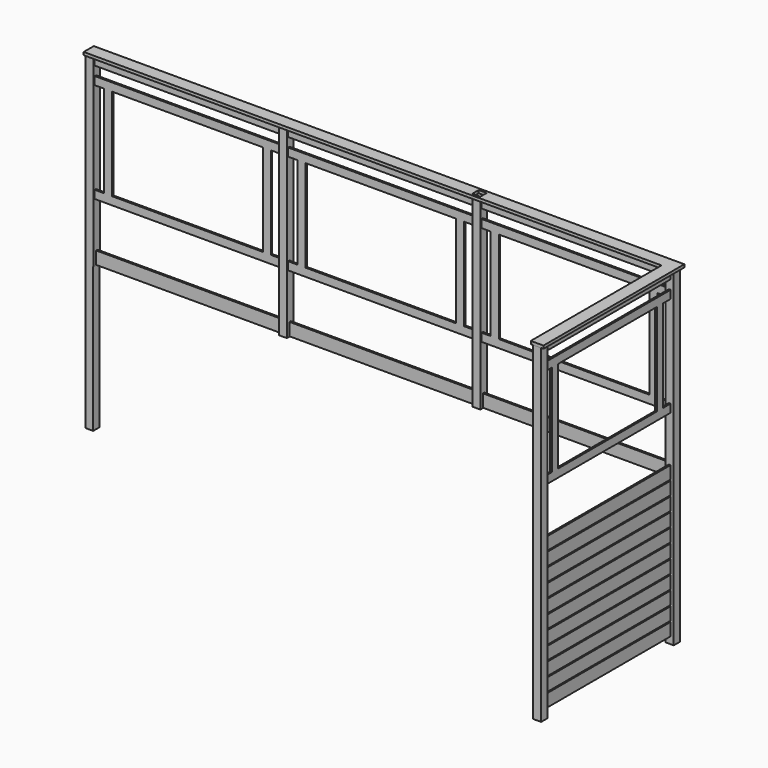
from build123d import *

# Parameters (mm, degrees)
F0_W      = 88.9
F0_H      = 88.9
F1_DEPTH  = 3632.2
F2_W      = 19.05
F2_H      = 139.7
F3_DEPTH  = 1739.9
F4_W      = 19.05
F4_H      = 139.7
F5_DEPTH  = 6311.9
F6_W      = 88.9
F6_H      = 88.9
F7_DEPTH  = 31.75
F8_W      = 1739.9
F8_H      = 88.9
F8_W_2    = 1358.9
F8_H_2    = 1016
F9_DEPTH  = 19.05
F10_W     = 2044.7
F10_H     = 88.9
F10_W_2   = 1663.7
F10_H_2   = 1016
F11_DEPTH = 19.05
F12_W     = 6316.164638
F12_H     = 1596.011162
F13_DEPTH = 152.4


with BuildPart() as f1:
    # F0 (on Top) → F1 (new body)
    with BuildSketch(Plane.XY):
        with Locations((6445.25, 44.45)):
            Rectangle(F0_W, F0_H)
        with Locations((6445.25, -1784.35)):
            Rectangle(F0_W, F0_H)
        with Locations((44.45, 44.45)):
            Rectangle(F0_W, F0_H)
        with Locations((2178.05, 44.45)):
            Rectangle(F0_W, F0_H)
        with Locations((4311.65, 44.45)):
            Rectangle(F0_W, F0_H)
    extrude(amount=F1_DEPTH)


with BuildPart() as f3:
    # F2 (on face) → F3 (new body)
    with BuildSketch(Plane.XZ):
        with Locations((6445.25, 1670.05)):
            Rectangle(F2_W, F2_H)
        with Locations((6445.25, 1517.65)):
            Rectangle(F2_W, F2_H)
        with Locations((6445.25, 1365.25)):
            Rectangle(F2_W, F2_H)
        with Locations((6445.25, 1212.85)):
            Rectangle(F2_W, F2_H)
        with Locations((6445.25, 1060.45)):
            Rectangle(F2_W, F2_H)
        with Locations((6445.25, 908.05)):
            Rectangle(F2_W, F2_H)
        with Locations((6445.25, 755.65)):
            Rectangle(F2_W, F2_H)
        with Locations((6445.25, 603.25)):
            Rectangle(F2_W, F2_H)
        with Locations((6445.25, 450.85)):
            Rectangle(F2_W, F2_H)
        with Locations((6445.25, 298.45)):
            Rectangle(F2_W, F2_H)
        with Locations((6445.25, 146.05)):
            Rectangle(F2_W, F2_H)
    extrude(amount=F3_DEPTH)


with BuildPart() as f5:
    # F4 (on face) → F5 (new body)
    with BuildSketch(Plane(origin=(6400.8, 0, 0), x_dir=(0, -1, 0), z_dir=(-1, 0, 0))):
        with Locations((-44.45, 1670.05)):
            Rectangle(F4_W, F4_H)
        with Locations((-44.45, 1517.65)):
            Rectangle(F4_W, F4_H)
        with Locations((-44.45, 1365.25)):
            Rectangle(F4_W, F4_H)
        with Locations((-44.45, 1212.85)):
            Rectangle(F4_W, F4_H)
        with Locations((-44.45, 1060.45)):
            Rectangle(F4_W, F4_H)
        with Locations((-44.45, 908.05)):
            Rectangle(F4_W, F4_H)
        with Locations((-44.45, 755.65)):
            Rectangle(F4_W, F4_H)
        with Locations((-44.45, 603.25)):
            Rectangle(F4_W, F4_H)
        with Locations((-44.45, 450.85)):
            Rectangle(F4_W, F4_H)
        with Locations((-44.45, 298.45)):
            Rectangle(F4_W, F4_H)
        with Locations((-44.45, 146.05)):
            Rectangle(F4_W, F4_H)
    extrude(amount=F5_DEPTH)


with BuildPart() as f7:
    # F6 (on face) → F7 (new body)
    with BuildSketch(Plane.XY.offset(3632.2)):
        Polygon((0, 114.3), (0, -25.4), (6375.4, -25.4), (6375.4, -1828.8), (6515.1, -1828.8), (6515.1, 114.3), align=None)
        with Locations((4311.65, 44.45)):
            Rectangle(F6_W, F6_H, mode=Mode.SUBTRACT)
    extrude(amount=F7_DEPTH)


with BuildPart() as f9:
    # F8 (on face) → F9 (new body)
    with BuildSketch(Plane(origin=(6435.725, 0, 0), x_dir=(0, -1, 0), z_dir=(-1, 0, 0))):
        with Locations((869.95, 3587.75)):
            Rectangle(F8_W, F8_H)
        Polygon((1739.9, 3441.7), (0, 3441.7), (0, 3352.8), (101.6, 3352.8), (101.6, 2336.8), (0, 2336.8), (0, 2247.9), (1739.9, 2247.9), (1739.9, 2336.8), (1638.3, 2336.8), (1638.3, 3352.8), (1739.9, 3352.8), align=None)
        with Locations((869.95, 2844.8)):
            Rectangle(F8_W_2, F8_H_2, mode=Mode.SUBTRACT)
    extrude(amount=-F9_DEPTH)


with BuildPart() as f11:
    # F10 (on face) → F11 (new body)
    with BuildSketch(Plane.XZ.offset(-34.925)):
        with Locations((5378.45, 3587.75)):
            Rectangle(F10_W, F10_H)
        with Locations((3244.85, 3587.75)):
            Rectangle(F10_W, F10_H)
        with Locations((1111.25, 3587.75)):
            Rectangle(F10_W, F10_H)
        Polygon((6400.8, 3352.8), (6400.8, 3441.7), (4356.1, 3441.7), (4356.1, 3352.8), (4457.7, 3352.8), (4457.7, 2336.8), (4356.1, 2336.8), (4356.1, 2247.9), (6400.8, 2247.9), (6400.8, 2336.8), (6299.2, 2336.8), (6299.2, 3352.8), align=None)
        with Locations((5378.45, 2844.8)):
            Rectangle(F10_W_2, F10_H_2, mode=Mode.SUBTRACT)
        Polygon((4267.2, 3352.8), (4267.2, 3441.7), (2222.5, 3441.7), (2222.5, 3352.8), (2324.1, 3352.8), (2324.1, 2336.8), (2222.5, 2336.8), (2222.5, 2247.9), (4267.2, 2247.9), (4267.2, 2336.8), (4165.6, 2336.8), (4165.6, 3352.8), align=None)
        with Locations((3244.85, 2844.8)):
            Rectangle(F10_W_2, F10_H_2, mode=Mode.SUBTRACT)
        Polygon((2133.6, 3352.8), (2133.6, 3441.7), (88.9, 3441.7), (88.9, 3352.8), (190.5, 3352.8), (190.5, 2336.8), (88.9, 2336.8), (88.9, 2247.9), (2133.6, 2247.9), (2133.6, 2336.8), (2032, 2336.8), (2032, 3352.8), align=None)
        with Locations((1111.25, 2844.8)):
            Rectangle(F10_W_2, F10_H_2, mode=Mode.SUBTRACT)
    extrude(amount=F11_DEPTH)


with BuildPart() as f13_tool:
    # F12 (on face) → F13 (new body)
    with BuildSketch(Plane(origin=(0, 88.9, 0), x_dir=(-1, 0, 0), z_dir=(0, 1, 0))):
        with Locations((-3242.717681, 798.005581)):
            Rectangle(F12_W, F12_H)
    extrude(amount=-F13_DEPTH)


with BuildPart() as f1_1:
    add(f1.part)

    # F13: cut by f13_tool
    add(f13_tool.part, mode=Mode.SUBTRACT)


with BuildPart() as f5_1:
    add(f5.part)

    # F13: cut by f13_tool
    add(f13_tool.part, mode=Mode.SUBTRACT)


solid = Compound([f3.part, f7.part, f9.part, f11.part, f1_1.part, f5_1.part])
